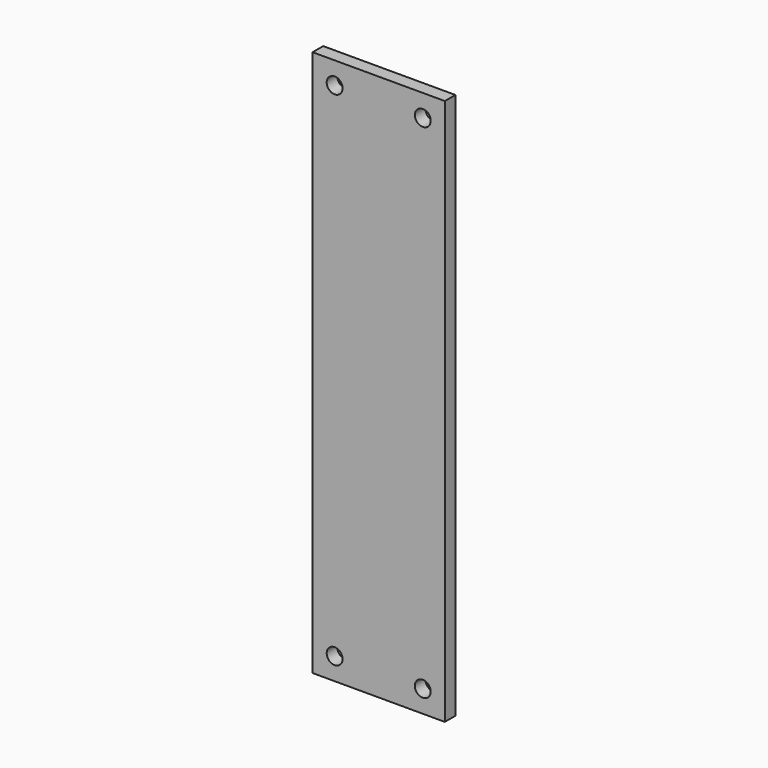
from build123d import *

# Parameters (mm, degrees)
CYLINDER038_R       = 1.8
CYLINDER038_DEPTH   = 10
ARRAY001019_X_COUNT = 2
ARRAY001019_X_PITCH = 20
ARRAY001019_Z_COUNT = 2
ARRAY001019_Z_PITCH = 114
BOX018_W            = 30
BOX018_H            = 3
BOX018_DEPTH        = 124


with BuildPart() as side_connector_hole_array:
    # Cylinder038 → Cylinder038 (new body)
    with BuildSketch(Plane.XZ):
        Circle(CYLINDER038_R)
    extrude(amount=CYLINDER038_DEPTH)

    # Array001019 X: side connector hole array ×2


with BuildPart() as side_connector_hole_array_1:
    add(side_connector_hole_array.part)
    with Locations(*[(i * ARRAY001019_X_PITCH, 0, 0) for i in range(1, ARRAY001019_X_COUNT)]):
        add(side_connector_hole_array.part)

    # Array001019 Z: side connector hole array ×2


with BuildPart() as side_connector_hole_array_2:
    add(side_connector_hole_array_1.part)
    with Locations(*[(0, 0, i * ARRAY001019_Z_PITCH) for i in range(1, ARRAY001019_Z_COUNT)]):
        add(side_connector_hole_array_1.part)


with BuildPart() as side_connector_hole_array_3:
    # Array001019 placement: moved
    add(side_connector_hole_array_2.part.moved(Location((5, 5, 5))))


with BuildPart() as vertical_side_connector_clone:
    # Box018 → Box018 (new body)
    with BuildSketch(Plane.XY):
        with Locations((15, 1.5)):
            Rectangle(BOX018_W, BOX018_H)
    extrude(amount=BOX018_DEPTH)

    # Cut014: cut side connector hole array
    add(side_connector_hole_array_3.part, mode=Mode.SUBTRACT)


with BuildPart() as vertical_side_connector_clone_1:
    # Compound001 placement: moved
    add(vertical_side_connector_clone.part.moved(Location((0, -11, -36))))


with BuildPart() as vertical_side_connector_clone_2:
    # Clone004 placement: moved
    add(vertical_side_connector_clone_1.part.moved(Location((0, 6, 2))))


with BuildPart() as vertical_side_connector_clone_3:
    # Body004 placement: moved
    add(vertical_side_connector_clone_2.part.moved(Location((114, -6, -2))))


solid = vertical_side_connector_clone_3.part
